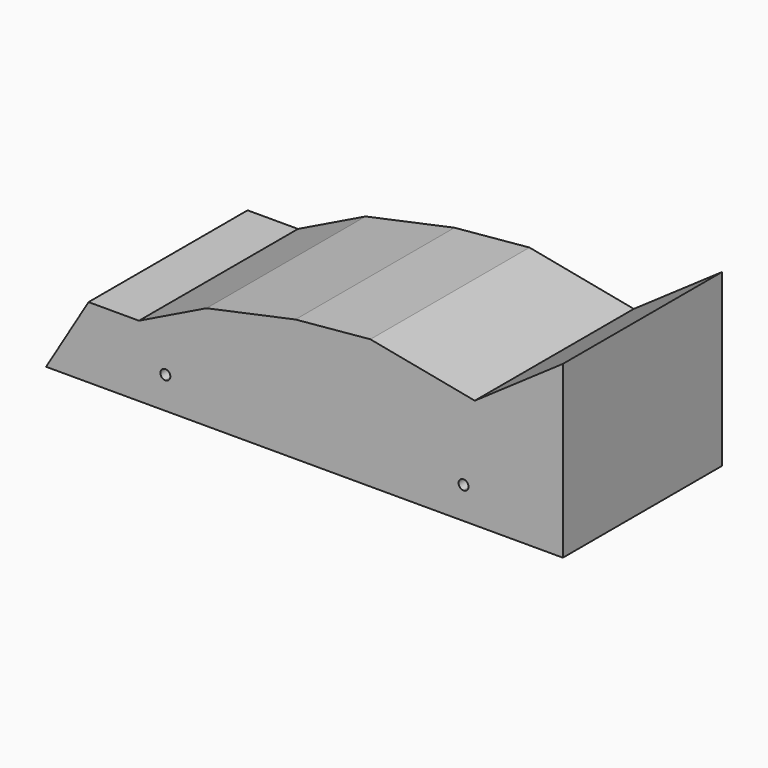
from build123d import *

# Parameters (mm, degrees)
F1_DEPTH = 50


with BuildPart() as f1:
    # F0 (on Front) → F1 (new body)
    with BuildSketch(Plane.XZ):
        Polygon((25, -25), (50, -25), (50, 17.929452), (27.833339, 2.565201), (1.583336, 7.62179), (-17.277775, 5.871432), (-39.638888, 1.093402), (-56.633994, -7.194445), (-69.316667, -7.194445), (-80, -25), (-50, -25), align=None)
        with BuildLine():
            ThreePointArc((-50, -18.25), (-50.883883, -16.116117), (-48.75, -17))
            ThreePointArc((-48.75, -17), (-49.116117, -17.883883), (-50, -18.25))
        make_face(mode=Mode.SUBTRACT)
        with BuildLine():
            ThreePointArc((25, -18.25), (24.116117, -16.116117), (26.25, -17))
            ThreePointArc((26.25, -17), (25.883883, -17.883883), (25, -18.25))
        make_face(mode=Mode.SUBTRACT)
    extrude(amount=F1_DEPTH)


solid = f1.part
